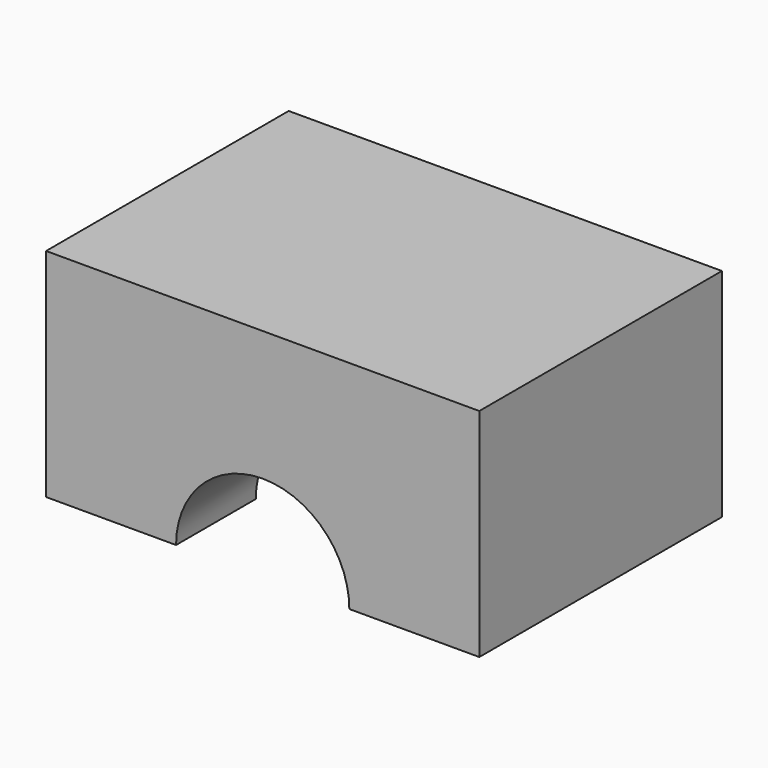
from build123d import *

# Parameters (mm, degrees)
F0_W     = 10
F0_H     = 7
F1_DEPTH = 5
F3_DEPTH = 7
F5_R     = 3.5
F6_DEPTH = 0.7
F8_R     = 3.5
F9_DEPTH = 0.9


with BuildPart() as f1:
    # F0 (on Top) → F1 (new body)
    with BuildSketch(Plane.XY):
        Rectangle(F0_W, F0_H)
    extrude(amount=F1_DEPTH)

    # F2 (on face) → F3 (cut, through all)
    with BuildSketch(Plane(origin=(0, 3.5, 0), x_dir=(-1, 0, 0), z_dir=(0, 1, 0))):
        with BuildLine():
            Line((-2, 0), (2, 0))
            ThreePointArc((2, 0), (0, 2), (-2, 0))
        make_face()
    extrude(amount=-F3_DEPTH, mode=Mode.SUBTRACT)

    # F5 (on offset) → F6 (cut)
    with BuildSketch(Plane(origin=(0, 2, 0), x_dir=(-1, 0, 0), z_dir=(0, 1, 0))):
        Circle(F5_R)
    extrude(amount=-F6_DEPTH, mode=Mode.SUBTRACT)

    # F8 (on offset) → F9 (cut)
    with BuildSketch(Plane(origin=(0, -0.3, 0), x_dir=(-1, 0, 0), z_dir=(0, 1, 0))):
        Circle(F8_R)
    extrude(amount=-F9_DEPTH, mode=Mode.SUBTRACT)


solid = f1.part
